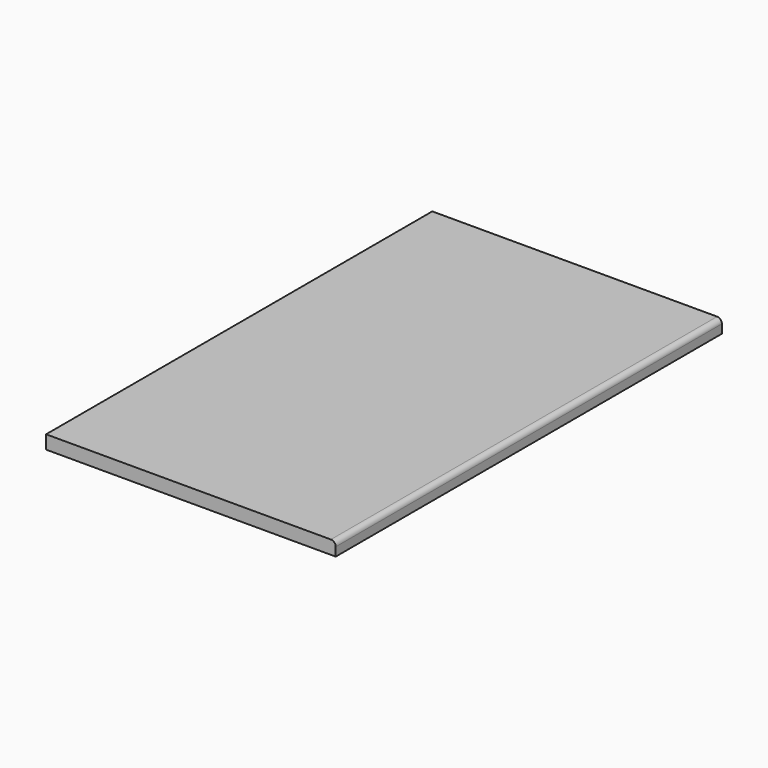
from build123d import *

# Parameters (mm, degrees)
F1_W           = 600
F1_H           = 1000
F2_DEPTH       = 28
F3_R           = 10
F5_D           = 8.2
F5_DEPTH       = 20
F5_CBORE_D     = 20
F5_CBORE_DEPTH = 11
F5_TIP         = 2.463528538


with BuildPart() as f2:
    # F1 (on offset) → F2 (new body)
    with BuildSketch(Plane.XY.offset(850)):
        Rectangle(F1_W, F1_H)
    extrude(amount=F2_DEPTH)

    # F3
    f3_edges = [f2.edges().sort_by_distance(p)[0] for p in [
        (300, 0, 878),
    ]]
    fillet(f3_edges, radius=F3_R)

    # F5
    with Locations(Plane(origin=(0, 0, 850), x_dir=(1, 0, 0), z_dir=(0, 0, -1))):
        with Locations((250, 325), (250, -305), (-250, -305), (-250, 325)):
            CounterBoreHole(F5_D / 2, F5_CBORE_D / 2, F5_CBORE_DEPTH, depth=F5_DEPTH)
            with Locations((0, 0, -(F5_DEPTH + F5_TIP / 2))):  # 118° drill point
                Cone(0, F5_D / 2, F5_TIP, mode=Mode.SUBTRACT)


solid = f2.part
